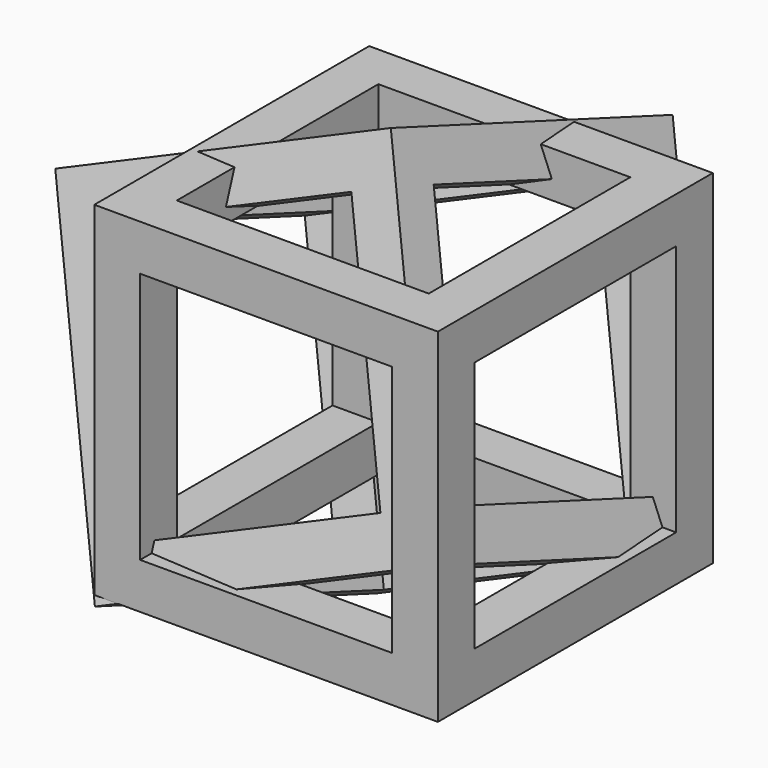
from build123d import *

# Parameters (mm, degrees)
F0_W     = 15
F0_H     = 15
F0_W_2   = 11
F0_H_2   = 11
F1_DEPTH = 15
F2_DEPTH = 15.001
F3_W     = 11
F3_H     = 11
F4_DEPTH = 15.001
F5_W     = 11
F5_H     = 11
F6_DEPTH = 15.001
F7_ANGLE = 30


with BuildPart() as f1:
    # F0 (on Top) → F1 (new body)
    with BuildSketch(Plane.XY):
        Rectangle(F0_W, F0_H)
        Rectangle(F0_W_2, F0_H_2, mode=Mode.SUBTRACT)
        Rectangle(F0_W_2, F0_H_2)
    extrude(amount=F1_DEPTH)

    # F0 (on Top) → F2 (cut, through all)
    with BuildSketch(Plane.XY):
        Rectangle(F0_W_2, F0_H_2)
    extrude(amount=F2_DEPTH, mode=Mode.SUBTRACT)

    # F3 (on face) → F4 (cut, through all)
    with BuildSketch(Plane.XZ.offset(7.5)):
        with Locations((0, 7.5)):
            Rectangle(F3_W, F3_H)
    extrude(amount=-F4_DEPTH, mode=Mode.SUBTRACT)

    # F5 (on face) → F6 (cut, through all)
    with BuildSketch(Plane(origin=(-7.5, 0, 0), x_dir=(0, -1, 0), z_dir=(-1, 0, 0))):
        with Locations((0, 7.5)):
            Rectangle(F5_W, F5_H)
    extrude(amount=-F6_DEPTH, mode=Mode.SUBTRACT)


with BuildPart() as f7_1:
    # F7: copy of F1
    add(f1.part.rotate(Axis((-0.4208650789, -0.5368703278, 0), (-0.6555917, -0.7551155692, 0)), F7_ANGLE))


solid = Compound([f1.part, f7_1.part])
